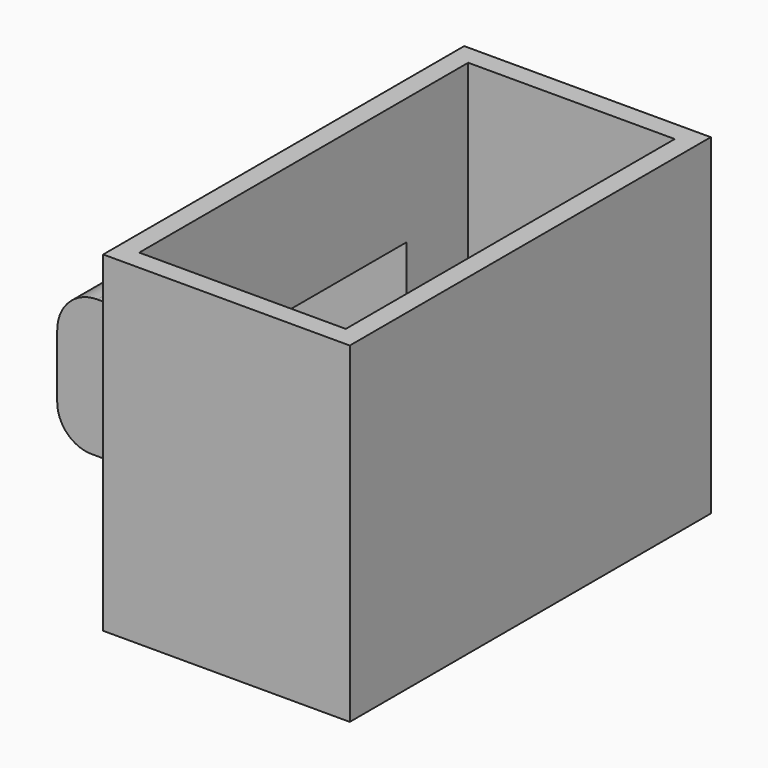
from build123d import *

# Parameters (mm, degrees)
F0_W     = 31.2911756337
F0_H     = 57.261432521
F1_DEPTH = 42.049087584
F2_W     = 35.097816959
F2_H     = 17.513435334
F3_DEPTH = 25.4
F4_T     = -2.54
F5_R     = 4.3641742047
F6_R     = 5.08


with BuildPart() as f1:
    # F0 (on Top) → F1 (new body)
    with BuildSketch(Plane.XY):
        with Locations((31.4034726471, 38.2589423098)):
            Rectangle(F0_W, F0_H)
    extrude(amount=F1_DEPTH)

    # F2 (on Right) → F3 (join)
    with BuildSketch(Plane.YZ):
        with Locations((39.5839652047, 19.7541881353)):
            Rectangle(F2_W, F2_H)
    extrude(amount=F3_DEPTH)

    # F4
    f4_openings = [f1.faces().sort_by_distance(p)[0] for p in [
        (31.403473, 38.258942, 42.049088),
    ]]
    offset(amount=F4_T, openings=f4_openings, kind=Kind.INTERSECTION)

    # F5
    f5_edges = [f1.edges().sort_by_distance(p)[0] for p in [
        (0, 39.583965, 10.99747),
    ]]
    fillet(f5_edges, radius=F5_R)

    # F6
    f6_edges = [f1.edges().sort_by_distance(p)[0] for p in [
        (0, 39.583965, 28.510906),
    ]]
    fillet(f6_edges, radius=F6_R)


solid = f1.part
